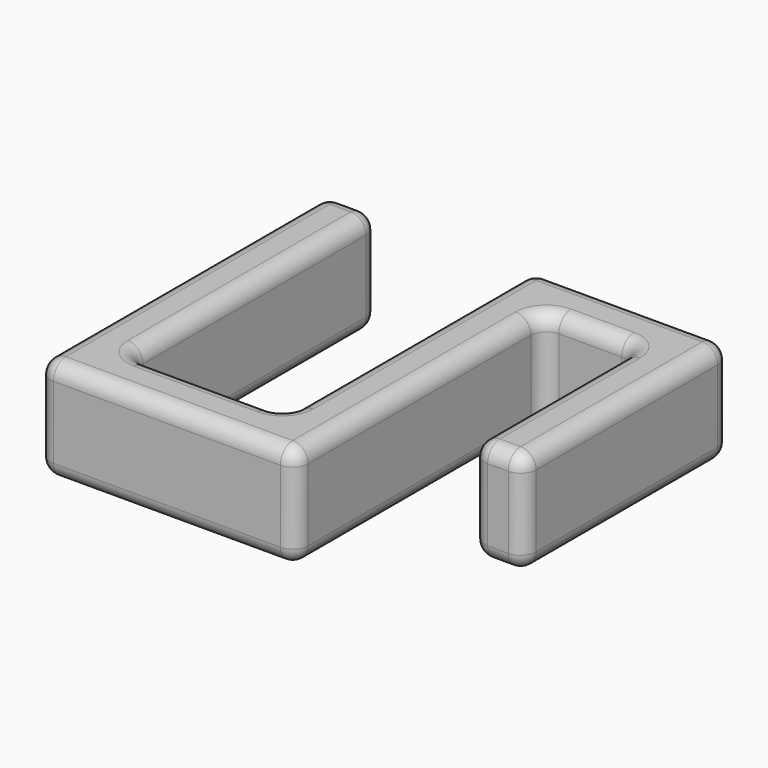
from build123d import *

# Parameters (mm, degrees)
PAD_DEPTH = 20
FILLET_R  = 3


with BuildPart() as part:
    # Sketch → Pad (new body)
    with BuildSketch(Plane.XY):
        Polygon((9.1, 0), (9.1, -40), (19.1, -40), (19.1, 10), (-19.1, 10), (-19.1, -50), (-49.1, -50), (-49.1, 10), (-59.1, 10), (-59.1, -60), (-9.1, -60), (-9.1, 0), align=None)
    extrude(amount=PAD_DEPTH)

    # Fillet
    fillet_edges = [part.edges().sort_by_distance(p)[0] for p in [
        (9.1, 0, 10),
        (9.1, -40, 10),
        (9.1, -20, 0),
        (9.1, -20, 20),
        (19.1, -40, 10),
        (14.1, -40, 0),
        (14.1, -40, 20),
        (19.1, 10, 10),
        (19.1, -15, 0),
        (19.1, -15, 20),
        (-19.1, 10, 10),
        (0, 10, 0),
        (0, 10, 20),
        (-19.1, -50, 10),
        (-19.1, -20, 0),
        (-19.1, -20, 20),
        (-49.1, -50, 10),
        (-34.1, -50, 0),
        (-34.1, -50, 20),
        (-49.1, 10, 10),
        (-49.1, -20, 0),
        (-49.1, -20, 20),
        (-59.1, 10, 10),
        (-54.1, 10, 0),
        (-54.1, 10, 20),
        (-59.1, -60, 10),
        (-59.1, -25, 0),
        (-59.1, -25, 20),
        (-9.1, -60, 10),
        (-34.1, -60, 0),
        (-34.1, -60, 20),
        (-9.1, 0, 10),
        (-9.1, -30, 0),
        (-9.1, -30, 20),
        (0, 0, 0),
        (0, 0, 20),
    ]]
    fillet(fillet_edges, radius=FILLET_R)


solid = part.part
